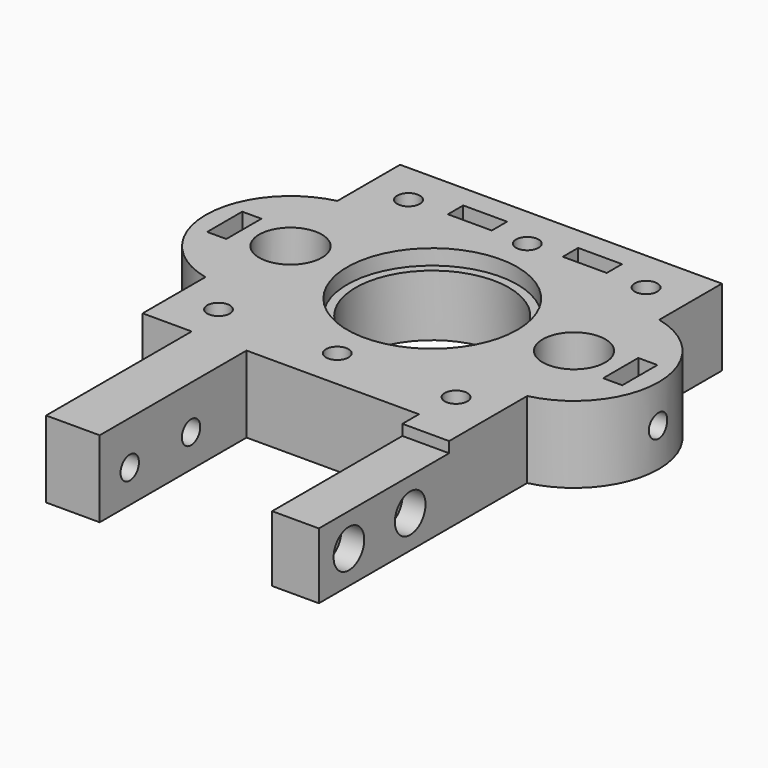
from build123d import *

# Parameters (mm, degrees)
SKETCH004_R          = 1.475
SKETCH004_R_2        = 10
PAD003_DEPTH         = 10
SKETCH009_R          = 2.76
POCKET002_DEPTH      = 3
SKETCH014_R          = 11.1
POCKET006_DEPTH      = 2
SKETCH016_W          = 21.25
SKETCH016_H          = 3
POCKET_DEPTH         = 21.001
SKETCH015_R          = 1.5
POCKET007_DEPTH      = 21.001
POCKET007_DEPTH_BACK = 21.001
SKETCH_R             = 2.5
POCKET008_DEPTH      = 3
SKETCH017_R          = 4.09
POCKET009_DEPTH      = 0.001
POCKET009_DEPTH_BACK = 10.001
SKETCH018_R          = 4.09
SKETCH018_W          = 2.5
SKETCH018_H          = 5.73
PAD_DEPTH            = 10
SKETCH019_W          = 5.73
SKETCH019_H          = 2.5
POCKET010_DEPTH      = 0.001
POCKET010_DEPTH_BACK = 10.001
SKETCH020_R          = 1.5
POCKET011_DEPTH      = 12
SKETCH045_R          = 1.5
POCKET027_DEPTH      = 5
SKETCH046_R          = 1.5
POCKET028_DEPTH      = 5
SKETCH052_W          = 22.5
SKETCH052_H          = 0.2
POCKET034_DEPTH      = 0.001
POCKET034_DEPTH_BACK = 10.001


with BuildPart() as part:
    # Sketch004 → Pad003 (new body)
    with BuildSketch(Plane.XY):
        Polygon((-21, 21), (21, 21), (21, 10), (21, -10), (21, -21), (21, -44.75), (14.9, -44.75), (14.9, -21), (-7.6, -21), (-7.6, -44.75), (-14.6, -44.75), (-14.6, -21), (-21, -21), align=None)
        with Locations((-15.5, 15.5)):
            Circle(SKETCH004_R, mode=Mode.SUBTRACT)
        with Locations((15.5, 15.5)):
            Circle(SKETCH004_R, mode=Mode.SUBTRACT)
        with Locations((-15.5, -15.5)):
            Circle(SKETCH004_R, mode=Mode.SUBTRACT)
        with Locations((15.5, -15.5)):
            Circle(SKETCH004_R, mode=Mode.SUBTRACT)
        with Locations((0, 15.5)):
            Circle(SKETCH004_R, mode=Mode.SUBTRACT)
        with Locations((0, -15.5)):
            Circle(SKETCH004_R, mode=Mode.SUBTRACT)
        Circle(SKETCH004_R_2, mode=Mode.SUBTRACT)
    extrude(amount=PAD003_DEPTH)

    # Sketch009 → Pocket002 (cut)
    with BuildSketch(Plane.XY):
        with Locations((-15.5, 15.5)):
            Circle(SKETCH009_R)
        with Locations((15.5, 15.5)):
            Circle(SKETCH009_R)
        with Locations((-15.5, -15.5)):
            Circle(SKETCH009_R)
        with Locations((15.5, -15.5)):
            Circle(SKETCH009_R)
        with Locations((0, 15.5)):
            Circle(SKETCH009_R)
        with Locations((0, -15.5)):
            Circle(SKETCH009_R)
    extrude(amount=POCKET002_DEPTH, mode=Mode.SUBTRACT)

    # Sketch014 (on Face5 of Pocket002) → Pocket006 (cut)
    with BuildSketch(Plane.XY.offset(10)):
        Circle(SKETCH014_R)
    extrude(amount=-POCKET006_DEPTH, mode=Mode.SUBTRACT)

    # Sketch016 → Pocket (cut, through all)
    with BuildSketch(Plane.YZ):
        with Locations((-34.125, 10.1)):
            Rectangle(SKETCH016_W, SKETCH016_H)
    extrude(amount=POCKET_DEPTH, mode=Mode.SUBTRACT)

    # Sketch015 → Pocket007 (cut, two sides)
    with BuildSketch(Plane.YZ) as pocket007_sk:
        with Locations((-39.85, 4.3)):
            Circle(SKETCH015_R)
        with Locations((-29.85, 4.3)):
            Circle(SKETCH015_R)
    extrude(amount=-POCKET007_DEPTH, mode=Mode.SUBTRACT)
    extrude(pocket007_sk.sketch, amount=POCKET007_DEPTH_BACK, mode=Mode.SUBTRACT)

    # Sketch (on DatumPlane) → Pocket008 (cut)
    with BuildSketch(Plane.YZ.offset(21)):
        with Locations((-39.85, 4.3)):
            Circle(SKETCH_R)
        with Locations((-29.85, 4.3)):
            Circle(SKETCH_R)
    extrude(amount=-POCKET008_DEPTH, mode=Mode.SUBTRACT)

    # Sketch017 → Pocket009 (cut, two sides)
    with BuildSketch(Plane.XY) as pocket009_sk:
        with Locations((-18.5, 0)):
            Circle(SKETCH017_R)
        with Locations((18.5, 0)):
            Circle(SKETCH017_R)
    extrude(amount=-POCKET009_DEPTH, mode=Mode.SUBTRACT)
    extrude(pocket009_sk.sketch, amount=POCKET009_DEPTH_BACK, mode=Mode.SUBTRACT)

    # Sketch018 → Pad (join)
    with BuildSketch(Plane.XY):
        with BuildLine():
            ThreePointArc((-21, 10.7688), (-29.555182, 0), (-21, -10.7688))
            Line((-13.41, -10.7688), (-21, -10.7688))
            Line((-13.41, 10.7688), (-13.41, -10.7688))
            Line((-21, 10.7688), (-13.41, 10.7688))
        make_face()
        with Locations((-18.5, 0)):
            Circle(SKETCH018_R, mode=Mode.SUBTRACT)
        with Locations((-25.84, 0)):
            Rectangle(SKETCH018_W, SKETCH018_H, mode=Mode.SUBTRACT)
        with BuildLine():
            ThreePointArc((21, -10.7688), (29.555182, 0), (21, 10.7688))
            Line((13.41, 10.7688), (21, 10.7688))
            Line((13.41, 10.7688), (13.41, -10.7688))
            Line((13.41, -10.7688), (21, -10.7688))
        make_face()
        with Locations((18.5, 0)):
            Circle(SKETCH018_R, mode=Mode.SUBTRACT)
        with Locations((25.84, 0)):
            Rectangle(SKETCH018_W, SKETCH018_H, mode=Mode.SUBTRACT)
    extrude(amount=PAD_DEPTH)

    # Sketch019 → Pocket010 (cut, two sides)
    with BuildSketch(Plane.XY) as pocket010_sk:
        with Locations((-7.5, 16.75)):
            Rectangle(SKETCH019_W, SKETCH019_H)
        with Locations((7.5, 16.75)):
            Rectangle(SKETCH019_W, SKETCH019_H)
    extrude(amount=-POCKET010_DEPTH, mode=Mode.SUBTRACT)
    extrude(pocket010_sk.sketch, amount=POCKET010_DEPTH_BACK, mode=Mode.SUBTRACT)

    # Sketch020 (on DatumPlane) → Pocket011 (cut)
    with BuildSketch(Plane(origin=(0, 21, 0), x_dir=(-1, 0, 0), z_dir=(0, 1, 0))):
        with Locations((-7.5, 5)):
            Circle(SKETCH020_R)
        with Locations((7.5, 5)):
            Circle(SKETCH020_R)
    extrude(amount=-POCKET011_DEPTH, mode=Mode.SUBTRACT)

    # Sketch045 (on DatumPlane) → Pocket027 (cut, symmetric)
    with BuildSketch(Plane.YZ.offset(24.59)):
        with Locations((0, 5)):
            Circle(SKETCH045_R)
    extrude(amount=POCKET027_DEPTH, both=True, mode=Mode.SUBTRACT)

    # Sketch046 (on DatumPlane) → Pocket028 (cut, symmetric)
    with BuildSketch(Plane(origin=(-24.59, 0, 0), x_dir=(0, -1, 0), z_dir=(-1, 0, 0))):
        with Locations((0, 5)):
            Circle(SKETCH046_R)
    extrude(amount=POCKET028_DEPTH, both=True, mode=Mode.SUBTRACT)

    # Sketch052 → Pocket034 (cut, two sides)
    with BuildSketch(Plane.XY) as pocket034_sk:
        with Locations((3.65, -20.9)):
            Rectangle(SKETCH052_W, SKETCH052_H)
    extrude(amount=-POCKET034_DEPTH, mode=Mode.SUBTRACT)
    extrude(pocket034_sk.sketch, amount=POCKET034_DEPTH_BACK, mode=Mode.SUBTRACT)


with BuildPart() as part_1:
    # Body003 placement: moved
    add(part.part.moved(Location((0, 0, 40))))


solid = part_1.part
